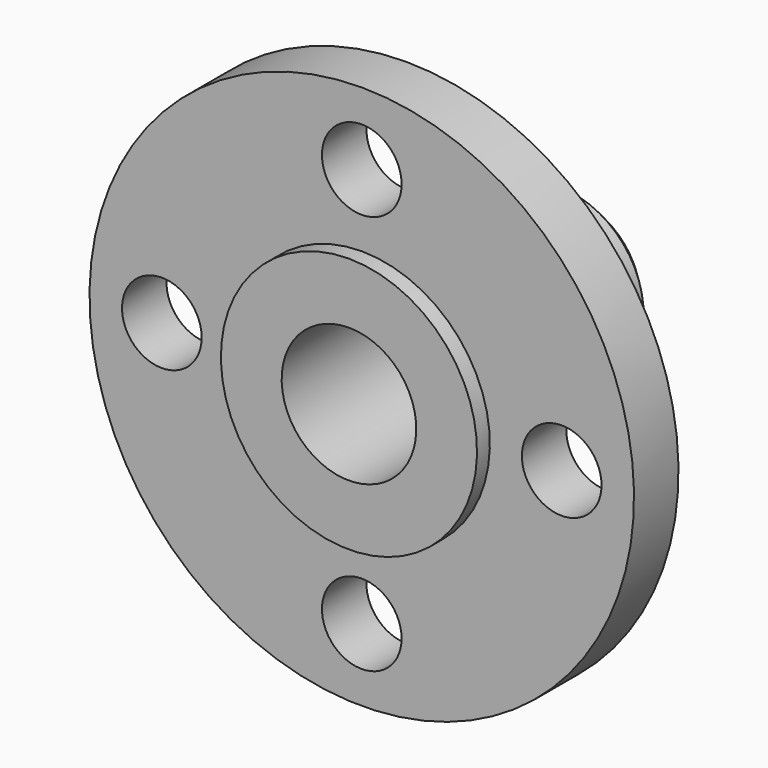
from build123d import *

# Parameters (mm, degrees)
F2_R     = 7.8994
F3_DEPTH = 52.42406


with BuildPart() as f1:
    # F0 (on Right) → F1 (revolve)
    with BuildSketch(Plane.YZ):
        Polygon((0, 25.4), (0, 13.34897), (55.59806, 13.34897), (52.115666, 16.74876), (48.940666, 16.74876), (17.3736, 24.64943), (14.1986, 24.64943), (14.1986, 53.99913), (3.175, 53.99913), (3.175, 25.4), align=None)
    revolve(axis=Axis((0, -0.429692, 0), (0, 1, 0)))

    # F2 (on face) → F3 (cut, through all)
    with BuildSketch(Plane.XZ.offset(-3.175)):
        with Locations((0, 39.6494)):
            Circle(F2_R)
        with Locations((-39.6494, 0)):
            Circle(F2_R)
        with Locations((0, -39.6494)):
            Circle(F2_R)
        with Locations((39.6494, 0)):
            Circle(F2_R)
    extrude(amount=-F3_DEPTH, mode=Mode.SUBTRACT)


solid = f1.part
